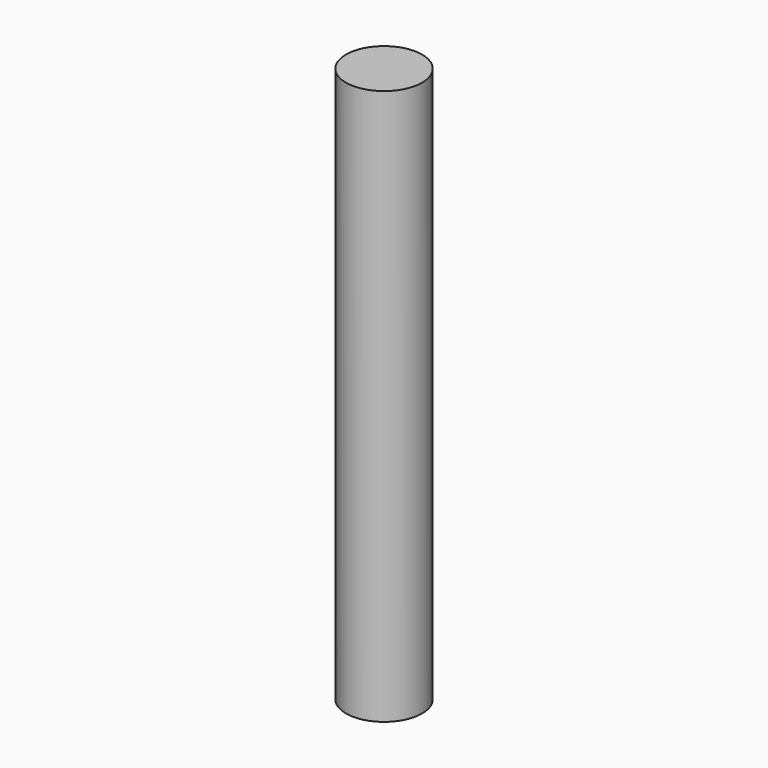
from build123d import *

# Parameters (mm, degrees)
CYLINDER_R     = 1.0287
CYLINDER_DEPTH = 15


with BuildPart() as part:
    # Cylinder → Cylinder (new body)
    with BuildSketch(Plane.XY.offset(-2.5)):
        Circle(CYLINDER_R)
    extrude(amount=CYLINDER_DEPTH)


solid = part.part
